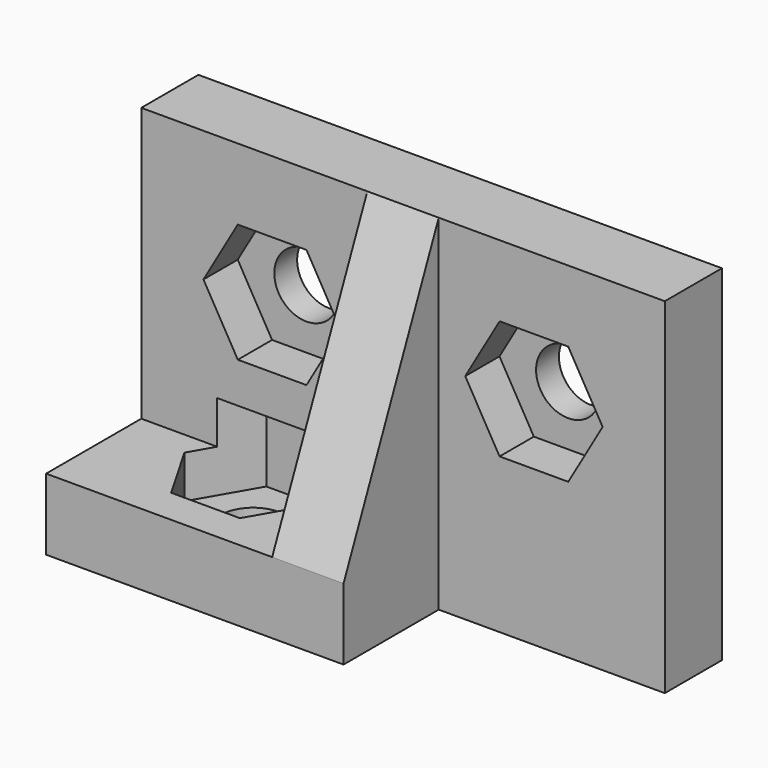
from build123d import *

# Parameters (mm, degrees)
EXTRUDE003_DEPTH  = 3.6
CYLINDER002_R     = 1.35
CYLINDER002_DEPTH = 3
EXTRUDE002_DEPTH  = 1.8
CYLINDER003_R     = 1.35
CYLINDER003_DEPTH = 30
EXTRUDE001_DEPTH  = 1.8
CYLINDER_R        = 1.35
CYLINDER_DEPTH    = 3
BOX_W             = 22
BOX_H             = 3
BOX_DEPTH         = 14.5
BOX001_W          = 12.5
BOX001_H          = 5
BOX001_DEPTH      = 3
EXTRUDE_DEPTH     = 3


with BuildPart() as extrude003:
    # Sketch003 → Extrude003 (new body)
    with BuildSketch(Plane.XY):
        Polygon((2.8868, 0), (1.4434, 2.500042), (-1.4434, 2.500042), (-2.8868, 0), (-1.4434, -2.500042), (1.4434, -2.500042), align=None)
    extrude(amount=EXTRUDE003_DEPTH)


with BuildPart() as extrude003_1:
    # Extrude003 placement: moved
    add(extrude003.part.moved(Location((5.5, -1, 1.2))))


with BuildPart() as hole03:
    # Cylinder002 → Cylinder002 (new body)
    with BuildSketch(Plane(origin=(5.5, -1, 0), x_dir=(0, 1, 0), z_dir=(0, 0, 1))):
        Circle(CYLINDER002_R)
    extrude(amount=CYLINDER002_DEPTH)

    # Fusion002: union Extrude003
    add(extrude003_1.part)


with BuildPart() as extrude002:
    # Sketch002 → Extrude002 (new body)
    with BuildSketch(Plane(origin=(16.5, 1.8, 9), x_dir=(1, 0, 0), z_dir=(0, -1, 0))):
        Polygon((2.8868, 0), (1.4434, 2.500042), (-1.4434, 2.500042), (-2.8868, 0), (-1.4434, -2.500042), (1.4434, -2.500042), align=None)
    extrude(amount=EXTRUDE002_DEPTH)


with BuildPart() as hole02:
    # Cylinder003 → Cylinder003 (new body)
    with BuildSketch(Plane(origin=(16.5, 3, 9), x_dir=(1, 0, 0), z_dir=(0, -1, 0))):
        Circle(CYLINDER003_R)
    extrude(amount=CYLINDER003_DEPTH)

    # Fusion001: union Extrude002
    add(extrude002.part)


with BuildPart() as extrude001:
    # Sketch001 → Extrude001 (new body)
    with BuildSketch(Plane(origin=(5.5, 1.8, 9), x_dir=(1, 0, 0), z_dir=(0, -1, 0))):
        Polygon((2.8868, 0), (1.4434, 2.500042), (-1.4434, 2.500042), (-2.8868, 0), (-1.4434, -2.500042), (1.4434, -2.500042), align=None)
    extrude(amount=EXTRUDE001_DEPTH)


with BuildPart() as hole01:
    # Cylinder → Cylinder (new body)
    with BuildSketch(Plane(origin=(5.5, 3, 9), x_dir=(1, 0, 0), z_dir=(0, -1, 0))):
        Circle(CYLINDER_R)
    extrude(amount=CYLINDER_DEPTH)

    # Fusion: union Extrude001
    add(extrude001.part)


with BuildPart() as cut001:
    # Box → Box (new body)
    with BuildSketch(Plane.XY):
        with Locations((11, 1.5)):
            Rectangle(BOX_W, BOX_H)
    extrude(amount=BOX_DEPTH)

    # Cut: cut Hole01
    add(hole01.part, mode=Mode.SUBTRACT)

    # Cut001: cut Hole02
    add(hole02.part, mode=Mode.SUBTRACT)


with BuildPart() as cut002:
    # Box001 → Box001 (new body)
    with BuildSketch(Plane(origin=(0, -5, 0), x_dir=(1, 0, 0), z_dir=(0, 0, 1))):
        with Locations((6.25, 2.5)):
            Rectangle(BOX001_W, BOX001_H)
    extrude(amount=BOX001_DEPTH)

    # Fusion003: union Cut001
    add(cut001.part)

    # Cut002: cut Hole03
    add(hole03.part, mode=Mode.SUBTRACT)


with BuildPart() as left_hand_bracket:
    # Sketch → Extrude (new body)
    with BuildSketch(Plane(origin=(0, 0, 1.4), x_dir=(0, 1, 0), z_dir=(1, 0, 0))):
        Polygon((0, 11.5), (0, 0), (-5, 0), align=None)
    extrude(amount=EXTRUDE_DEPTH)


with BuildPart() as left_hand_bracket_1:
    # Extrude placement: moved
    add(left_hand_bracket.part.moved(Location((9.5, 0, 1.6))))

    # Fusion004: union Cut002
    add(cut002.part)


solid = left_hand_bracket_1.part
